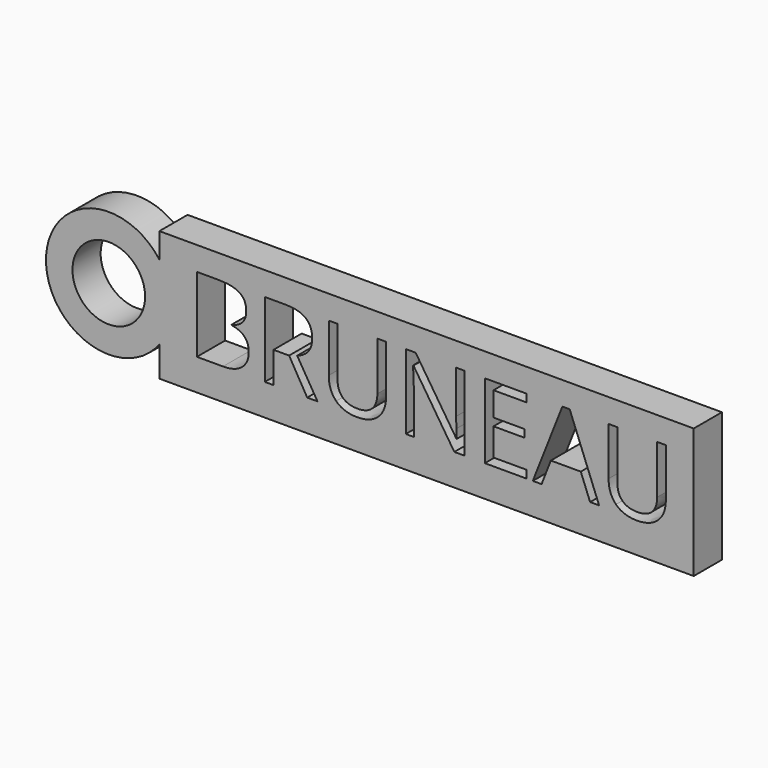
from build123d import *

# Parameters (mm, degrees)
F0_R     = 15.4520785229
F1_DEPTH = 15


with BuildPart() as f1:
    # F0 (on Front) → F1 (new body)
    with BuildSketch(Plane.XZ):
        with BuildLine():
            Line((153.3627957106, 25.8576832712), (-74.0064680576, 25.8576832712))
            Line((-74.0064680576, 25.8576832712), (-74.0064680576, 15.1579529047))
            ThreePointArc((-74.0064680576, 15.1579529047), (-122.2711699364, -0.6687305868), (-74.0064680576, -16.4954140782))
            Line((-74.0064680576, -16.4954140782), (-74.0064680576, -29.4242557138))
            Line((-74.0064680576, -29.4242557138), (153.3627957106, -29.4242557138))
            Line((153.3627957106, -29.4242557138), (153.3627957106, 25.8576832712))
        make_face()
        with Locations((-95.5439214778, -0.6687305868)):
            Circle(F0_R, mode=Mode.SUBTRACT)
        with BuildLine():
            Line((-58.040468074, -16.0495918244), (-58.040468074, 15.7779227399))
            Line((-58.040468074, 15.7779227399), (-49.0474014724, 15.7779227399))
            add(Edge.make_bspline(
                [(-49.0474014724, 15.7779227399), (-42.7153352131, 15.7779227399), (-39.8836686185, 13.8831790407)],
                knots=[0, 0, 0, 1, 1, 1], degree=2))
            add(Edge.make_bspline(
                [(-39.8836686185, 13.8831790407), (-37.052002024, 11.9884353416), (-37.052002024, 7.8994112555)],
                knots=[0, 0, 0, 1, 1, 1], degree=2))
            add(Edge.make_bspline(
                [(-37.052002024, 7.8994112555), (-37.052002024, 5.0642616762), (-38.6297941117, 3.2252457329)],
                knots=[0, 0, 0, 1, 1, 1], degree=2))
            add(Edge.make_bspline(
                [(-38.6297941117, 3.2252457329), (-40.2075861995, 1.3862297896), (-43.2377829242, 0.84288417)],
                knots=[0, 0, 0, 1, 1, 1], degree=2))
            Line((-43.2377829242, 0.84288417), (-43.2377829242, 0.626939116))
            add(Edge.make_bspline(
                [(-43.2377829242, 0.626939116), (-35.9862086932, -0.6130034518), (-35.9862086932, -6.9938314975)],
                knots=[0, 0, 0, 1, 1, 1], degree=2))
            add(Edge.make_bspline(
                [(-35.9862086932, -6.9938314975), (-35.9862086932, -11.2570048206), (-38.8701200589, -13.6532983225)],
                knots=[0, 0, 0, 1, 1, 1], degree=2))
            add(Edge.make_bspline(
                [(-38.8701200589, -13.6532983225), (-41.7540314245, -16.0495918244), (-46.9367127193, -16.0495918244)],
                knots=[0, 0, 0, 1, 1, 1], degree=2))
            Line((-46.9367127193, -16.0495918244), (-58.040468074, -16.0495918244))
        make_face(mode=Mode.SUBTRACT)
        with BuildLine():
            Line((-18.80812795, -2.8142498082), (-25.4536628361, -2.8142498082))
            Line((-25.4536628361, -2.8142498082), (-25.4536628361, -16.0495918244))
            Line((-25.4536628361, -16.0495918244), (-29.1525926312, -16.0495918244))
            Line((-29.1525926312, -16.0495918244), (-29.1525926312, 15.7779227399))
            Line((-29.1525926312, 15.7779227399), (-20.4242328699, 15.7779227399))
            add(Edge.make_bspline(
                [(-20.4242328699, 15.7779227399), (-14.5658525354, 15.7779227399), (-11.7690157883, 13.5348805666)],
                knots=[0, 0, 0, 1, 1, 1], degree=2))
            add(Edge.make_bspline(
                [(-11.7690157883, 13.5348805666), (-8.9721790411, 11.2918383933), (-8.9721790411, 6.7848561383)],
                knots=[0, 0, 0, 1, 1, 1], degree=2))
            add(Edge.make_bspline(
                [(-8.9721790411, 6.7848561383), (-8.9721790411, 0.4736877874), (-15.3739049953, -1.7484564774)],
                knots=[0, 0, 0, 1, 1, 1], degree=2))
            Line((-15.3739049953, -1.7484564774), (-6.7291368679, -16.0495918244))
            Line((-6.7291368679, -16.0495918244), (-11.1037657027, -16.0495918244))
            Line((-11.1037657027, -16.0495918244), (-18.80812795, -2.8142498082))
        make_face(mode=Mode.SUBTRACT)
        with BuildLine():
            Line((18.7384475592, 15.7779227399), (22.4373773542, 15.7779227399))
            Line((22.4373773542, 15.7779227399), (22.4373773542, -4.8134830496))
            add(Edge.make_bspline(
                [(22.4373773542, -4.8134830496), (22.4373773542, -10.2608711847), (19.1494397586, -13.3746595432)],
                knots=[0, 0, 0, 1, 1, 1], degree=2))
            add(Edge.make_bspline(
                [(19.1494397586, -13.3746595432), (15.861502163, -16.4884479018), (10.1145773402, -16.4884479018)],
                knots=[0, 0, 0, 1, 1, 1], degree=2))
            add(Edge.make_bspline(
                [(10.1145773402, -16.4884479018), (4.3676525173, -16.4884479018), (1.2225172961, -13.35027865)],
                knots=[0, 0, 0, 1, 1, 1], degree=2))
            add(Edge.make_bspline(
                [(1.2225172961, -13.35027865), (-1.9226179251, -10.2121093983), (-1.9226179251, -4.7298914158)],
                knots=[0, 0, 0, 1, 1, 1], degree=2))
            Line((-1.9226179251, -4.7298914158), (-1.9226179251, 15.7779227399))
            Line((-1.9226179251, 15.7779227399), (1.7832778394, 15.7779227399))
            Line((1.7832778394, 15.7779227399), (1.7832778394, -4.9876322866))
            add(Edge.make_bspline(
                [(1.7832778394, -4.9876322866), (1.7832778394, -8.9721668305), (3.9601433026, -11.1072364768)],
                knots=[0, 0, 0, 1, 1, 1], degree=2))
            add(Edge.make_bspline(
                [(3.9601433026, -11.1072364768), (6.1370087658, -13.2423061231), (10.358386272, -13.2423061231)],
                knots=[0, 0, 0, 1, 1, 1], degree=2))
            add(Edge.make_bspline(
                [(10.358386272, -13.2423061231), (14.3847166328, -13.2423061231), (16.561582096, -11.0967875225)],
                knots=[0, 0, 0, 1, 1, 1], degree=2))
            add(Edge.make_bspline(
                [(16.561582096, -11.0967875225), (18.7384475592, -8.951268922), (18.7384475592, -4.9458364697)],
                knots=[0, 0, 0, 1, 1, 1], degree=2))
            Line((18.7384475592, -4.9458364697), (18.7384475592, 15.7779227399))
        make_face(mode=Mode.SUBTRACT)
        with BuildLine():
            Line((55.7207795403, 15.7779227399), (55.7207795403, -16.0495918244))
            Line((55.7207795403, -16.0495918244), (51.4994020341, -16.0495918244))
            Line((51.4994020341, -16.0495918244), (34.105376237, 10.6579351705))
            Line((34.105376237, 10.6579351705), (33.9312269999, 10.6579351705))
            add(Edge.make_bspline(
                [(33.9312269999, 10.6579351705), (34.279525474, 5.95590577), (34.279525474, 2.0410309209)],
                knots=[0, 0, 0, 1, 1, 1], degree=2))
            Line((34.279525474, 2.0410309209), (34.279525474, -16.0495918244))
            Line((34.279525474, -16.0495918244), (30.8592344582, -16.0495918244))
            Line((30.8592344582, -16.0495918244), (30.8592344582, 15.7779227399))
            Line((30.8592344582, 15.7779227399), (35.0388161476, 15.7779227399))
            Line((35.0388161476, 15.7779227399), (52.3910461278, -10.8251147127))
            Line((52.3910461278, -10.8251147127), (52.5651953649, -10.8251147127))
            add(Edge.make_bspline(
                [(52.5651953649, -10.8251147127), (52.523399548, -10.2399732762), (52.3701482194, -7.0495592534)],
                knots=[0, 0, 0, 1, 1, 1], degree=2))
            add(Edge.make_bspline(
                [(52.3701482194, -7.0495592534), (52.2168968908, -3.8591452305), (52.2586927077, -2.4868492425)],
                knots=[0, 0, 0, 1, 1, 1], degree=2))
            Line((52.2586927077, -2.4868492425), (52.2586927077, 15.7779227399))
            Line((52.2586927077, 15.7779227399), (55.7207795403, 15.7779227399))
        make_face(mode=Mode.SUBTRACT)
        Polygon((82.2123614812, -12.7407563204), (82.2123614812, -16.0495918244), (64.47003721, -16.0495918244), (64.47003721, 15.7779227399), (82.2123614812, 15.7779227399), (82.2123614812, 12.4899851443), (68.1689670051, 12.4899851443), (68.1689670051, 2.2360780664), (81.3625132044, 2.2360780664), (81.3625132044, -1.0309616207), (68.1689670051, -1.0309616207), (68.1689670051, -12.7407563204), align=None, mode=Mode.SUBTRACT)
        Polygon((113.0994701655, -16.0495918244), (109.2681869502, -16.0495918244), (105.3045503148, -5.9280381667), (92.5498601929, -5.9280381667), (88.6349853439, -16.0495918244), (84.8872937624, -16.0495918244), (97.4678346473, 15.9102761601), (100.5816230059, 15.9102761601), align=None, mode=Mode.SUBTRACT)
        with BuildLine():
            Line((137.8077639189, 15.7779227399), (141.506693714, 15.7779227399))
            Line((141.506693714, 15.7779227399), (141.506693714, -4.8134830496))
            add(Edge.make_bspline(
                [(141.506693714, -4.8134830496), (141.506693714, -10.2608711847), (138.2187561184, -13.3746595432)],
                knots=[0, 0, 0, 1, 1, 1], degree=2))
            add(Edge.make_bspline(
                [(138.2187561184, -13.3746595432), (134.9308185228, -16.4884479018), (129.1838936999, -16.4884479018)],
                knots=[0, 0, 0, 1, 1, 1], degree=2))
            add(Edge.make_bspline(
                [(129.1838936999, -16.4884479018), (123.4369688771, -16.4884479018), (120.2918336559, -13.35027865)],
                knots=[0, 0, 0, 1, 1, 1], degree=2))
            add(Edge.make_bspline(
                [(120.2918336559, -13.35027865), (117.1466984346, -10.2121093983), (117.1466984346, -4.7298914158)],
                knots=[0, 0, 0, 1, 1, 1], degree=2))
            Line((117.1466984346, -4.7298914158), (117.1466984346, 15.7779227399))
            Line((117.1466984346, 15.7779227399), (120.8525941992, 15.7779227399))
            Line((120.8525941992, 15.7779227399), (120.8525941992, -4.9876322866))
            add(Edge.make_bspline(
                [(120.8525941992, -4.9876322866), (120.8525941992, -8.9721668305), (123.0294596624, -11.1072364768)],
                knots=[0, 0, 0, 1, 1, 1], degree=2))
            add(Edge.make_bspline(
                [(123.0294596624, -11.1072364768), (125.2063251256, -13.2423061231), (129.4277026318, -13.2423061231)],
                knots=[0, 0, 0, 1, 1, 1], degree=2))
            add(Edge.make_bspline(
                [(129.4277026318, -13.2423061231), (133.4540329925, -13.2423061231), (135.6308984557, -11.0967875225)],
                knots=[0, 0, 0, 1, 1, 1], degree=2))
            add(Edge.make_bspline(
                [(135.6308984557, -11.0967875225), (137.8077639189, -8.951268922), (137.8077639189, -4.9458364697)],
                knots=[0, 0, 0, 1, 1, 1], degree=2))
            Line((137.8077639189, -4.9458364697), (137.8077639189, 15.7779227399))
        make_face(mode=Mode.SUBTRACT)
    extrude(amount=F1_DEPTH)


solid = f1.part
